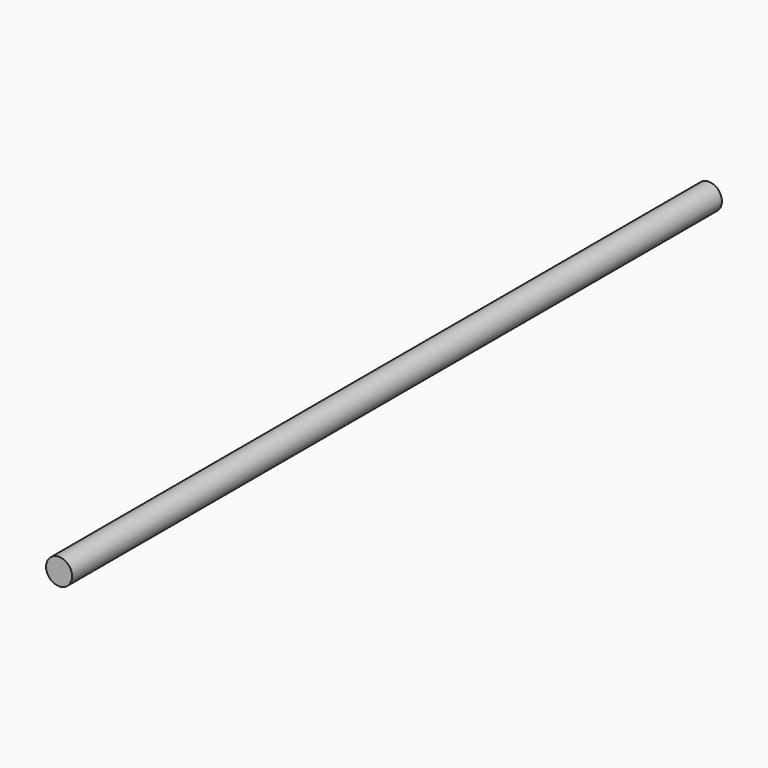
from build123d import *

# Parameters (mm, degrees)
SKETCH_R  = 4
PAD_DEPTH = 250


with BuildPart() as part:
    # Sketch → Pad (new body)
    with BuildSketch(Plane.XZ):
        Circle(SKETCH_R)
    extrude(amount=PAD_DEPTH)


solid = part.part
